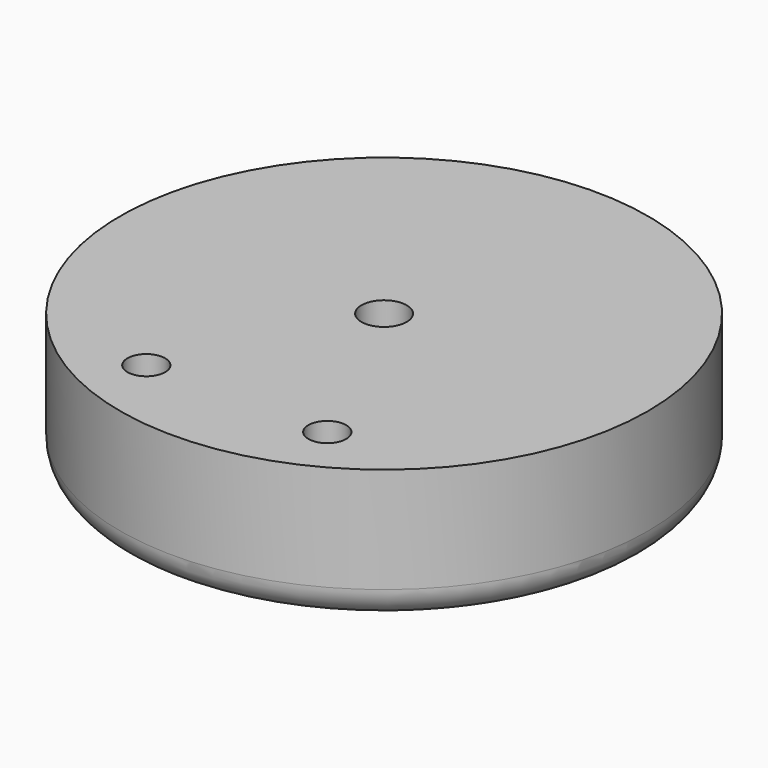
from build123d import *

# Parameters (mm, degrees)
F0_R           = 17.5
F1_DEPTH       = 9
F2_D           = 3
F2_CSINK_D     = 6.72
F2_CSINK_ANGLE = 90
F3_D           = 2.5
F4_R           = 2


with BuildPart() as f1:
    # F0 (on Top) → F1 (new body)
    with BuildSketch(Plane.XY):
        Circle(F0_R)
    extrude(amount=F1_DEPTH)

    # F2 (through all)
    with Locations(Plane(origin=(0, 0, 0), x_dir=(1, 0, 0), z_dir=(0, 0, -1))):
        with Locations((0, 0)):
            CounterSinkHole(F2_D / 2, F2_CSINK_D / 2, counter_sink_angle=F2_CSINK_ANGLE)

    # F3 (through all)
    with Locations(Plane(origin=(0, 0, 0), x_dir=(1, 0, 0), z_dir=(0, 0, -1))):
        with Locations((6, 12.2062498704), (-6, 12.2062498704)):
            Hole(F3_D / 2)

    # F4
    f4_edges = [f1.edges().sort_by_distance(p)[0] for p in [
        (-17.5, 0, 0),
    ]]
    fillet(f4_edges, radius=F4_R)


solid = f1.part
